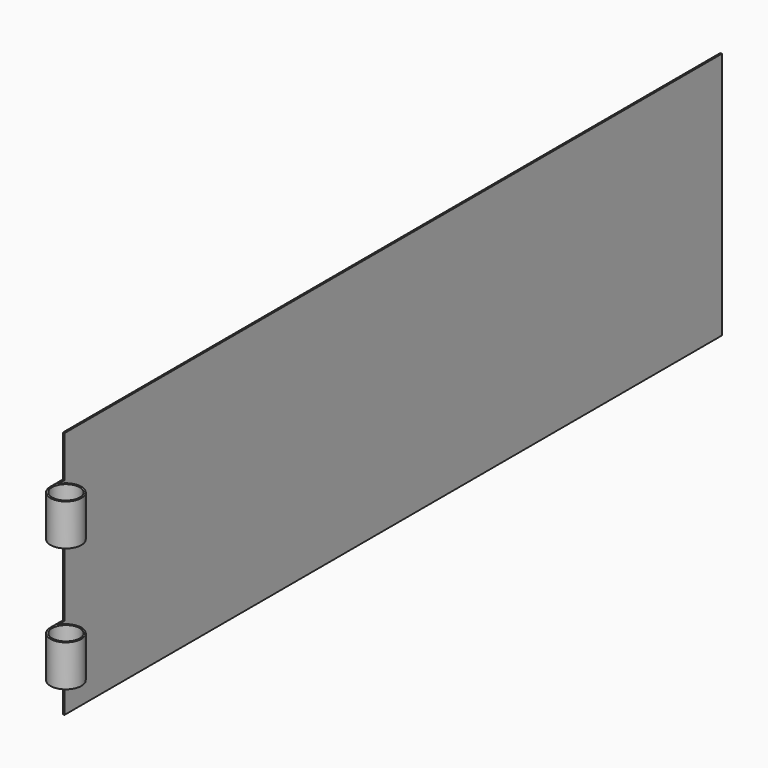
from build123d import *

# Parameters (mm, degrees)
F0_R          = 25.4
F1_DEPTH      = 457.2
F2_W          = 57.15
F2_H          = 76.2
F2_H_2        = 152.4
F2_H_3        = 79.4389369488
F3_DEPTH      = 28.576
F3_DEPTH_BACK = 28.576
F4_W          = 3.175
F4_H          = 457.2
F5_DEPTH      = 742.95


with BuildPart() as f1:
    # F0 (on Top) → F1 (new body)
    with BuildSketch(Plane.XY):
        with BuildLine():
            Line((-28.575, 800.1), (-28.575, 0))
            ThreePointArc((-28.575, 0), (27.7699083992, -6.7351920908), (-25.4, 13.0908603613))
            Line((-25.4, 13.0908603613), (-25.4, 800.1))
            Line((-25.4, 800.1), (-28.575, 800.1))
        make_face()
        Circle(F0_R, mode=Mode.SUBTRACT)
    extrude(amount=F1_DEPTH)

    # F2 (on Right) → F3 (cut, two sides)
    with BuildSketch(Plane.YZ) as f3_sk:
        with Locations((0, 38.1)):
            Rectangle(F2_W, F2_H)
        with Locations((0, 228.6)):
            Rectangle(F2_W, F2_H_2)
        with Locations((0, 420.7194684744)):
            Rectangle(F2_W, F2_H_3)
    extrude(amount=-F3_DEPTH, mode=Mode.SUBTRACT)
    extrude(f3_sk.sketch, amount=F3_DEPTH_BACK, mode=Mode.SUBTRACT)

    # F4 (on face) → F5 (join)
    with BuildSketch(Plane(origin=(0, 800.1, 0), x_dir=(-1, 0, 0), z_dir=(0, 1, 0))):
        with Locations((26.9875, 228.6)):
            Rectangle(F4_W, F4_H)
    extrude(amount=F5_DEPTH)


solid = f1.part
